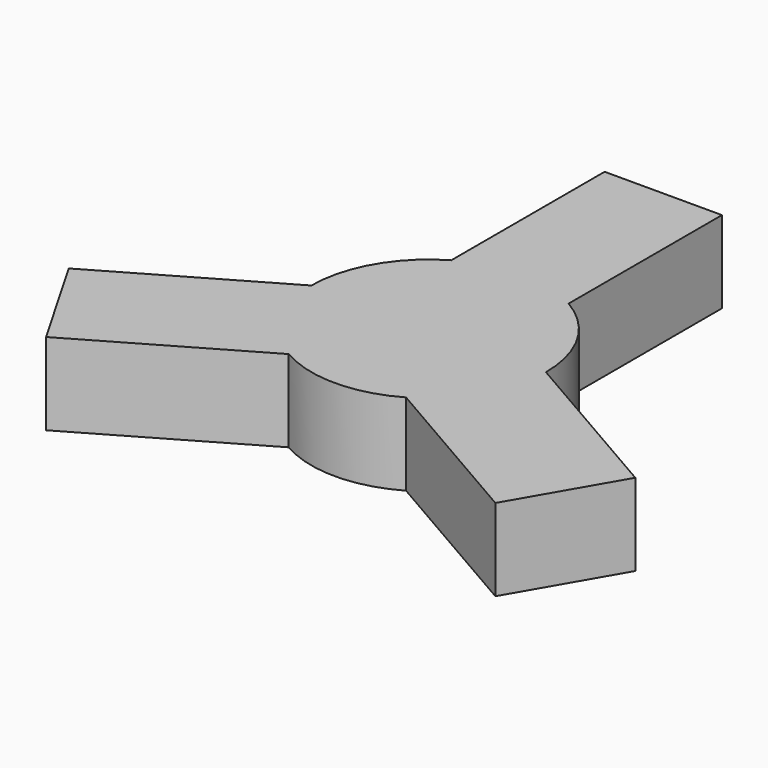
from build123d import *

# Parameters (mm, degrees)
F2_DEPTH = 7


with BuildPart() as f2:
    # F1 (on Top) → F2 (new body)
    with BuildSketch(Plane.XY):
        with BuildLine():
            Line((0, 0), (-5, 0))
            Line((-5, 0), (-5, 5))
            Line((-5, 5), (-5, 8.660254))
            ThreePointArc((-5, 8.660254), (-8.660254, 5), (-10, 0))
            ThreePointArc((-10, 0), (-8.660254, -5), (-5, -8.660254))
            ThreePointArc((-5, -8.660254), (0, -10), (5, -8.660254))
            ThreePointArc((5, -8.660254), (8.660254, -5), (10, 0))
            ThreePointArc((10, 0), (8.660254, 5), (5, 8.660254))
            Line((5, 8.660254), (5, 5))
            Line((5, 5), (5, 0))
            Line((5, 0), (0, 0))
        make_face()
        with BuildLine():
            Line((24.150635, -8.169873), (10, 0))
            ThreePointArc((10, 0), (8.660254, -5), (5, -8.660254))
            Line((5, -8.660254), (19.150635, -16.830127))
            Line((19.150635, -16.830127), (24.150635, -8.169873))
        make_face()
        Polygon((5, 5), (0, 0), (5, 0), align=None)
        Polygon((-5, 5), (-5, 0), (0, 0), align=None)
        with BuildLine():
            Line((-5, 5), (0, 0))
            Line((0, 0), (5, 5))
            Line((5, 5), (5, 8.660254))
            ThreePointArc((5, 8.660254), (0, 10), (-5, 8.660254))
            Line((-5, 8.660254), (-5, 5))
        make_face()
        with BuildLine():
            Line((-5, 25), (-5, 8.660254))
            ThreePointArc((-5, 8.660254), (0, 10), (5, 8.660254))
            Line((5, 8.660254), (5, 25))
            Line((5, 25), (-5, 25))
        make_face()
        with BuildLine():
            ThreePointArc((-5, -8.660254), (-8.660254, -5), (-10, 0))
            Line((-10, 0), (-24.150635, -8.169873))
            Line((-24.150635, -8.169873), (-19.150635, -16.830127))
            Line((-19.150635, -16.830127), (-5, -8.660254))
        make_face()
    extrude(amount=F2_DEPTH)


solid = f2.part
